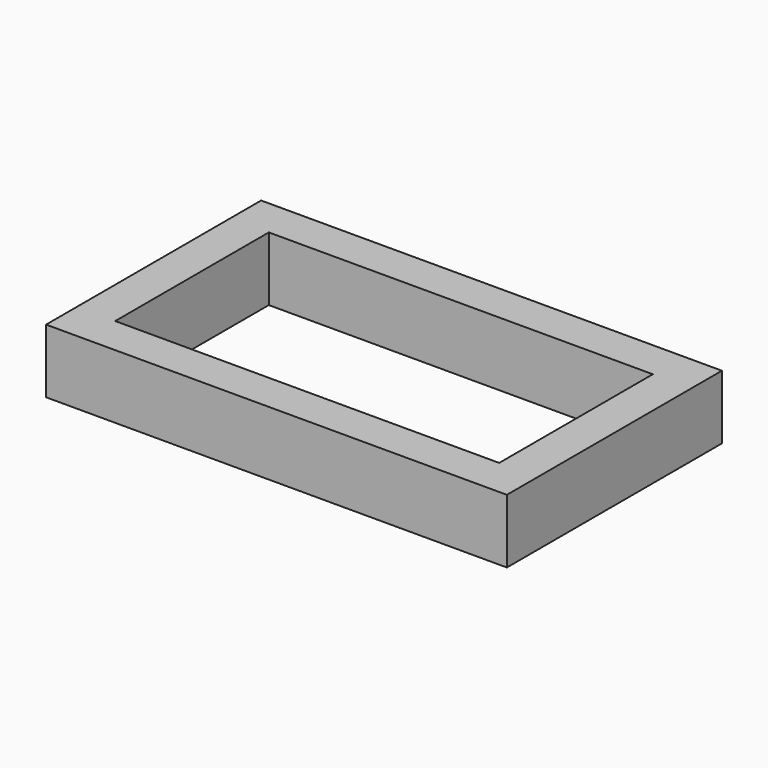
from build123d import *

# Parameters (mm, degrees)
SKETCH_W   = 36
SKETCH_H   = 21
SKETCH_W_2 = 30
SKETCH_H_2 = 15
PAD_DEPTH  = 5


with BuildPart() as part:
    # Sketch → Pad (new body)
    with BuildSketch(Plane.XY):
        with Locations((15, 7.5)):
            Rectangle(SKETCH_W, SKETCH_H)
        with Locations((15, 7.5)):
            Rectangle(SKETCH_W_2, SKETCH_H_2, mode=Mode.SUBTRACT)
    extrude(amount=PAD_DEPTH)


solid = part.part
